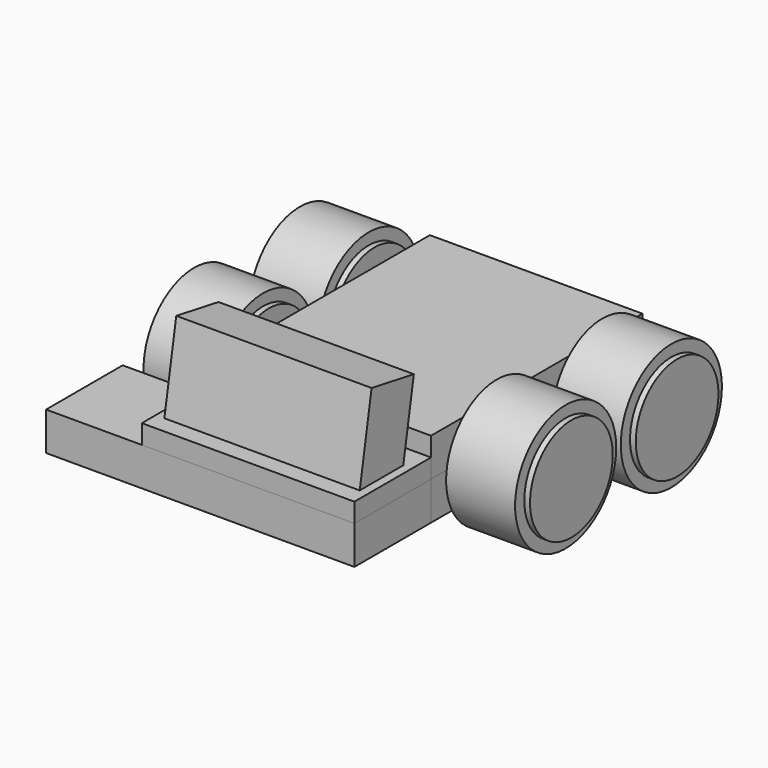
from build123d import *

# Parameters (mm, degrees)
F2_R      = 16.5
F2_R_2    = 13.5
F3_DEPTH  = 9
F4_DEPTH  = 10.5
F5_R      = 9
F6_DEPTH  = 14.5
F8_R      = 7.725
F9_DEPTH  = 38.22
F11_DEPTH = 26.695
F12_W     = 4.7
F12_H     = 14.7177613787
F13_DEPTH = 3.6
F18_W     = 55.5
F18_H     = 69
F19_DEPTH = 10
F20_W     = 51
F20_H     = 30
F21_DEPTH = 14
F22_ANGLE = 80
F24_DEPTH = 10
F25_DEPTH = 25
F26_DEPTH = 5
F27_DEPTH = 25


with BuildPart() as f3:
    # F2 (on Right) → F3 (new body, symmetric)
    with BuildSketch(Plane.YZ):
        Circle(F2_R)
        Circle(F2_R_2, mode=Mode.SUBTRACT)
    extrude(amount=F3_DEPTH, both=True)

    # F2 (on Right) → F4 (join, symmetric)
    with BuildSketch(Plane.YZ):
        Circle(F2_R_2)
    extrude(amount=F4_DEPTH, both=True)

    # F5 (on face) → F6 (cut)
    with BuildSketch(Plane(origin=(-10.5, 0, 0), x_dir=(0, -1, 0), z_dir=(-1, 0, 0))):
        Circle(F5_R)
    extrude(amount=-F6_DEPTH, mode=Mode.SUBTRACT)


with BuildPart() as f9:
    # F8 (on offset) → F9 (new body)
    with BuildSketch(Plane(origin=(3, 0, 0), x_dir=(0, -1, 0), z_dir=(-1, 0, 0))):
        Circle(F8_R)
    extrude(amount=F9_DEPTH)

    # F10 (on face) → F11 (cut)
    with BuildSketch(Plane(origin=(-35.22, 0, 0), x_dir=(0, -1, 0), z_dir=(-1, 0, 0))):
        with BuildLine():
            ThreePointArc((-6, 4.865760475), (-7.725, 0), (-6, -4.865760475))
            Line((-6, -4.865760475), (-6, 4.865760475))
        make_face()
        with BuildLine():
            Line((6, 4.865760475), (6, -4.865760475))
            ThreePointArc((6, -4.865760475), (7.2809898022, -2.5812424334), (7.725, 0))
            ThreePointArc((7.725, 0), (7.2809898022, 2.5812424334), (6, 4.865760475))
        make_face()
    extrude(amount=-F11_DEPTH, mode=Mode.SUBTRACT)

    # F12 (on face) → F13 (join)
    with BuildSketch(Plane(origin=(-35.22, 0, 0), x_dir=(0, -1, 0), z_dir=(-1, 0, 0))):
        Rectangle(F12_W, F12_H)
    extrude(amount=F13_DEPTH)


with BuildPart() as f3_1:
    # F14: moved
    add(f3.part.moved(Location((39.5, 33.5, 0))))


with BuildPart() as f9_1:
    # F14: moved
    add(f9.part.moved(Location((39.5, 33.5, 0))))


with BuildPart() as f15_1:
    # F15: instance of F3
    add(f3_1.part.mirror(Plane.YZ))


with BuildPart() as f15_2:
    # F15: instance of F9
    add(f9_1.part.mirror(Plane.YZ))


with BuildPart() as f16_1:
    # F16: copy of F15_1
    add(f15_1.part.moved(Location((0, -34.5, 0))))


with BuildPart() as f16_2:
    # F16: copy of F3
    add(f3_1.part.moved(Location((0, -34.5, 0))))


with BuildPart() as f16_3:
    # F16: copy of F9
    add(f9_1.part.moved(Location((0, -34.5, 0))))


with BuildPart() as f16_4:
    # F16: copy of F15_2
    add(f15_2.part.moved(Location((0, -34.5, 0))))


with BuildPart() as f19:
    # F18 (on Top) → F19 (new body)
    with BuildSketch(Plane.XY):
        with Locations((0, 15.5)):
            Rectangle(F18_W, F18_H)
    extrude(amount=-F19_DEPTH)


with BuildPart() as f21:
    # F20 (on face) → F21 (new body)
    with BuildSketch(Plane.XY):
        Rectangle(F20_W, F20_H)
    extrude(amount=F21_DEPTH)


with BuildPart() as f21_1:
    # F22: moved
    add(f21.part.rotate(Axis((0, -15, 0), (1, 0, 0)), F22_ANGLE))


with BuildPart() as f21_2:
    # F23: moved
    add(f21_1.part.moved(Location((0, -12, -5))))


with BuildPart() as f24:
    # F24 (new): a face of the model
    f24_faces = [f19.part.faces().sort_by_distance(p)[0] for p in [
        (0, 15.5, 0),
    ]]
    extrude(f24_faces, amount=F24_DEPTH)


with BuildPart() as f25:
    # F25 (new): a face of the model
    f25_faces = [f19.part.faces().sort_by_distance(p)[0] for p in [
        (0, -19, -5),
    ]]
    extrude(f25_faces, amount=F25_DEPTH)


with BuildPart() as f26:
    # F26 (new): a face of the model
    f26_faces = [f25.part.faces().sort_by_distance(p)[0] for p in [
        (0, -31.5, 0),
    ]]
    extrude(f26_faces, amount=F26_DEPTH)


with BuildPart() as f25_1:
    add(f25.part)

    # F27 (add): a face of the model
    f27_faces = [f25_1.faces().sort_by_distance(p)[0] for p in [
        (-27.75, -31.5, -5),
    ]]
    extrude(f27_faces, amount=F27_DEPTH)


solid = Compound([f3_1.part, f9_1.part, f15_1.part, f15_2.part, f16_1.part, f16_2.part, f16_3.part, f16_4.part, f19.part, f21_2.part, f24.part, f26.part, f25_1.part])
